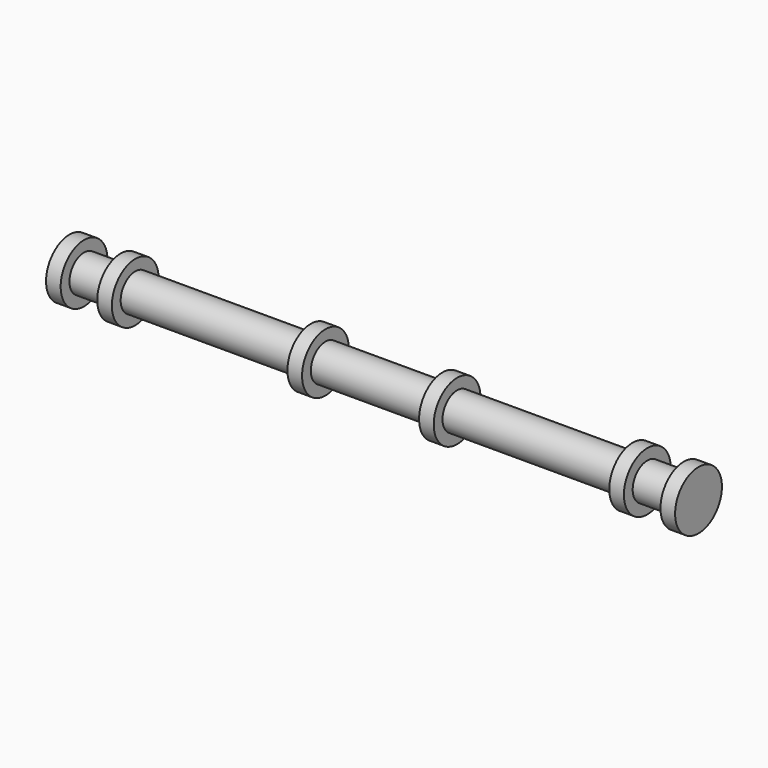
from build123d import *

# Parameters (mm, degrees)
F0_R      = 4
F1_DEPTH  = 2
F2_R      = 2.5
F3_DEPTH  = 5
F4_R      = 4
F5_DEPTH  = 2
F6_R      = 2.5
F7_DEPTH  = 24
F8_R      = 4
F9_DEPTH  = 2
F10_R     = 2.5
F11_DEPTH = 16
F12_R     = 4
F13_DEPTH = 2
F14_R     = 2.5
F15_DEPTH = 24
F16_R     = 4
F17_DEPTH = 2
F18_R     = 2.5
F19_DEPTH = 5
F20_R     = 4
F21_DEPTH = 2


with BuildPart() as f1:
    # F0 (on Right) → F1 (new body)
    with BuildSketch(Plane.YZ):
        Circle(F0_R)
    extrude(amount=F1_DEPTH)

    # F2 (on face) → F3 (join)
    with BuildSketch(Plane.YZ.offset(2)):
        Circle(F2_R)
    extrude(amount=F3_DEPTH)

    # F4 (on face) → F5 (join)
    with BuildSketch(Plane.YZ.offset(7)):
        Circle(F4_R)
    extrude(amount=F5_DEPTH)

    # F6 (on face) → F7 (join)
    with BuildSketch(Plane.YZ.offset(9)):
        Circle(F6_R)
    extrude(amount=F7_DEPTH)

    # F8 (on face) → F9 (join)
    with BuildSketch(Plane.YZ.offset(33)):
        Circle(F8_R)
    extrude(amount=F9_DEPTH)

    # F10 (on face) → F11 (join)
    with BuildSketch(Plane.YZ.offset(35)):
        Circle(F10_R)
    extrude(amount=F11_DEPTH)

    # F12 (on face) → F13 (join)
    with BuildSketch(Plane.YZ.offset(51)):
        Circle(F12_R)
    extrude(amount=F13_DEPTH)

    # F14 (on face) → F15 (join)
    with BuildSketch(Plane.YZ.offset(53)):
        Circle(F14_R)
    extrude(amount=F15_DEPTH)

    # F16 (on face) → F17 (join)
    with BuildSketch(Plane.YZ.offset(77)):
        Circle(F16_R)
    extrude(amount=F17_DEPTH)

    # F18 (on face) → F19 (join)
    with BuildSketch(Plane.YZ.offset(79)):
        Circle(F18_R)
    extrude(amount=F19_DEPTH)

    # F20 (on face) → F21 (join)
    with BuildSketch(Plane.YZ.offset(84)):
        Circle(F20_R)
    extrude(amount=F21_DEPTH)


solid = f1.part
